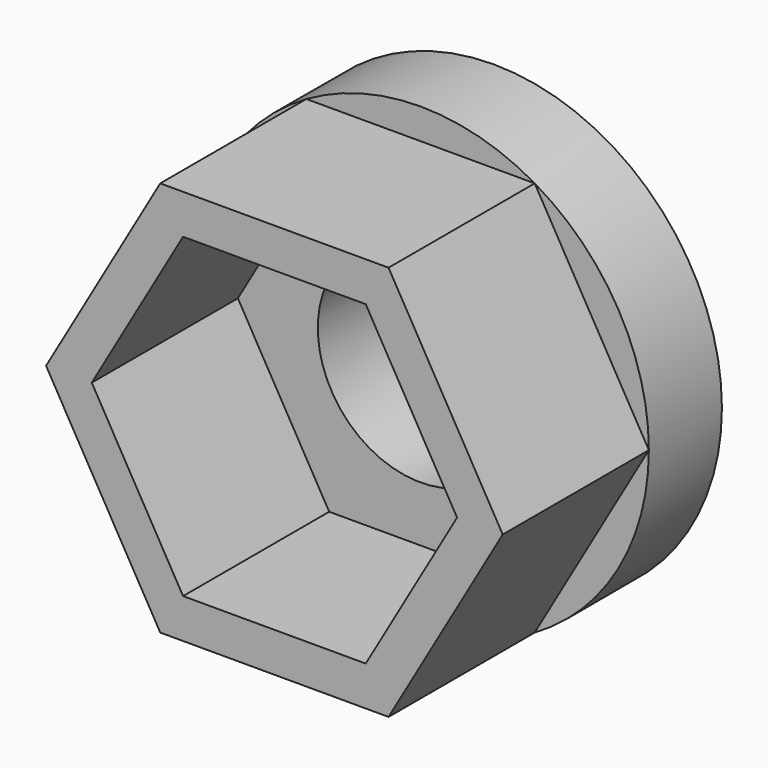
from build123d import *

# Parameters (mm, degrees)
SKETCH002_R   = 5
SKETCH002_R_2 = 2.25
PAD002_DEPTH  = 2
PAD003_DEPTH  = 4


with BuildPart() as part:
    # Sketch002 → Pad002 (new body)
    with BuildSketch(Plane.XZ):
        Circle(SKETCH002_R)
        Circle(SKETCH002_R_2, mode=Mode.SUBTRACT)
    extrude(amount=PAD002_DEPTH)

    # Sketch003 (on Face4 of Pad002) → Pad003 (join)
    with BuildSketch(Plane.XZ.offset(2)):
        Polygon((2.5, -4.330127), (5, 0), (2.5, 4.330127), (-2.5, 4.330127), (-5, 0), (-2.5, -4.330127), align=None)
        Polygon((-2, -3.464102), (2, -3.464102), (4, 0), (2, 3.464102), (-2, 3.464102), (-4, 0), align=None, mode=Mode.SUBTRACT)
    extrude(amount=PAD003_DEPTH)


with BuildPart() as part_1:
    # Body001 placement: moved
    add(part.part.moved(Location((20, 146, 61))))


solid = part_1.part
